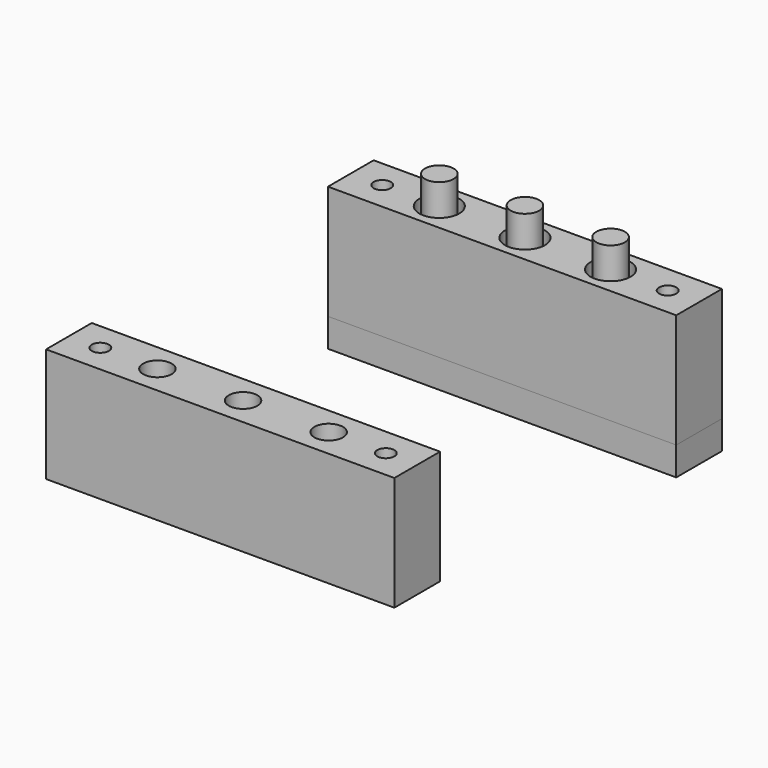
from build123d import *

# Parameters (mm, degrees)
F0_W          = 61
F0_H          = 10
F0_R          = 1.5
F0_R_2        = 3.5
F1_DEPTH      = 20
F2_W          = 61
F2_H          = 10
F2_R          = 1.5
F2_R_2        = 3.5
F2_R_3        = 2.5
F3_DEPTH      = 5
F4_DEPTH      = 25
F4_DEPTH_BACK = 5
F5_W          = 61
F5_H          = 10
F5_R          = 1.5
F5_R_2        = 2.5
F6_DEPTH      = 20


with BuildPart() as f1:
    # F0 (on Top) → F1 (new body)
    with BuildSketch(Plane.XY):
        Rectangle(F0_W, F0_H)
        with Locations((-25, 0)):
            Circle(F0_R, mode=Mode.SUBTRACT)
        with Locations((-15, 0)):
            Circle(F0_R_2, mode=Mode.SUBTRACT)
        Circle(F0_R_2, mode=Mode.SUBTRACT)
        with Locations((15, 0)):
            Circle(F0_R_2, mode=Mode.SUBTRACT)
        with Locations((25, 0)):
            Circle(F0_R, mode=Mode.SUBTRACT)
    extrude(amount=F1_DEPTH)


with BuildPart() as f3:
    # F2 (on face) → F3 (new body)
    with BuildSketch(Plane(origin=(0, 0, 0), x_dir=(1, 0, 0), z_dir=(0, 0, -1))):
        Rectangle(F2_W, F2_H)
        with Locations((-25, 0)):
            Circle(F2_R, mode=Mode.SUBTRACT)
        with Locations((-15, 0)):
            Circle(F2_R_2, mode=Mode.SUBTRACT)
        Circle(F2_R_2, mode=Mode.SUBTRACT)
        with Locations((15, 0)):
            Circle(F2_R_2, mode=Mode.SUBTRACT)
        with Locations((25, 0)):
            Circle(F2_R, mode=Mode.SUBTRACT)
        with Locations((-15, 0)):
            Circle(F2_R_2)
        with Locations((-15, 0)):
            Circle(F2_R_3, mode=Mode.SUBTRACT)
        Circle(F2_R_2)
        Circle(F2_R_3, mode=Mode.SUBTRACT)
        with Locations((15, 0)):
            Circle(F2_R_2)
        with Locations((15, 0)):
            Circle(F2_R_3, mode=Mode.SUBTRACT)
    extrude(amount=F3_DEPTH)

    # F2 (on face) → F4 (join, two sides)
    with BuildSketch(Plane(origin=(0, 0, 0), x_dir=(1, 0, 0), z_dir=(0, 0, -1))) as f4_sk:
        with Locations((15, 0)):
            Circle(F2_R_3)
        Circle(F2_R_3)
        with Locations((-15, 0)):
            Circle(F2_R_3)
    extrude(amount=-F4_DEPTH)
    extrude(f4_sk.sketch, amount=F4_DEPTH_BACK)


with BuildPart() as f6:
    # F5 (on Top) → F6 (new body)
    with BuildSketch(Plane.XY):
        with Locations((0, -61.713668406)):
            Rectangle(F5_W, F5_H)
        with Locations((-25, -61.713668406)):
            Circle(F5_R, mode=Mode.SUBTRACT)
        with Locations((-15, -61.713668406)):
            Circle(F5_R_2, mode=Mode.SUBTRACT)
        with Locations((0, -61.713668406)):
            Circle(F5_R_2, mode=Mode.SUBTRACT)
        with Locations((15, -61.713668406)):
            Circle(F5_R_2, mode=Mode.SUBTRACT)
        with Locations((25, -61.713668406)):
            Circle(F5_R, mode=Mode.SUBTRACT)
    extrude(amount=F6_DEPTH)


solid = Compound([f1.part, f3.part, f6.part])
